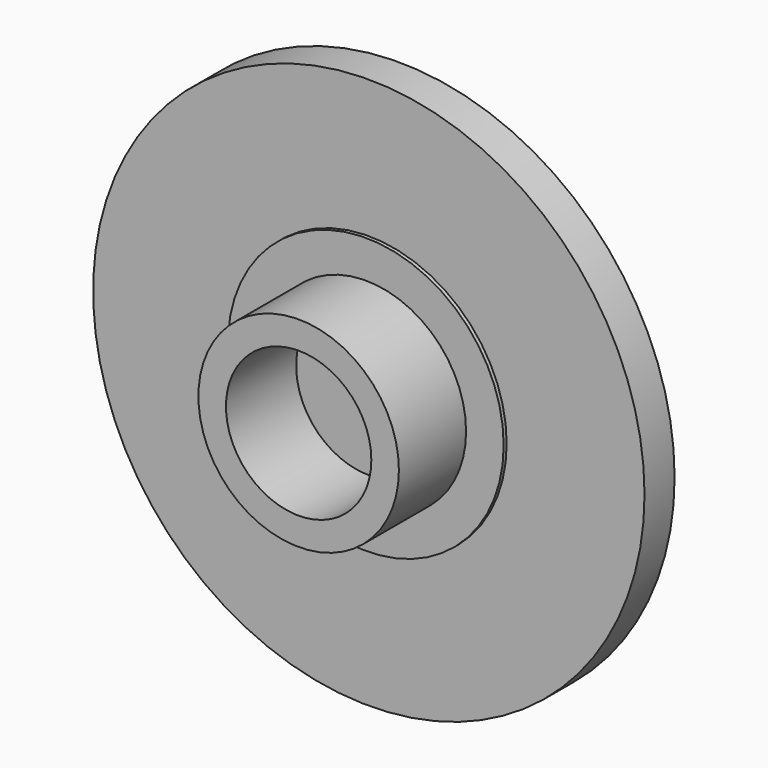
from build123d import *

# Parameters (mm, degrees)
F0_R     = 11
F0_R_2   = 5.5
F0_R_3   = 4
F0_R_4   = 2.9
F1_DEPTH = 1.5
F2_DEPTH = 1.65
F3_DEPTH = 5


with BuildPart() as f1:
    # F0 (on Front) → F1 (new body)
    with BuildSketch(Plane.XZ):
        Circle(F0_R)
        Circle(F0_R_2, mode=Mode.SUBTRACT)
        Circle(F0_R_2)
        Circle(F0_R_3, mode=Mode.SUBTRACT)
        Circle(F0_R_3)
        Circle(F0_R_4, mode=Mode.SUBTRACT)
        Circle(F0_R_4)
    extrude(amount=F1_DEPTH)

    # F0 (on Front) → F2 (join)
    with BuildSketch(Plane.XZ):
        Circle(F0_R_2)
        Circle(F0_R_3, mode=Mode.SUBTRACT)
    extrude(amount=F2_DEPTH)

    # F0 (on Front) → F3 (join)
    with BuildSketch(Plane.XZ):
        Circle(F0_R_3)
        Circle(F0_R_4, mode=Mode.SUBTRACT)
    extrude(amount=F3_DEPTH)


solid = f1.part
